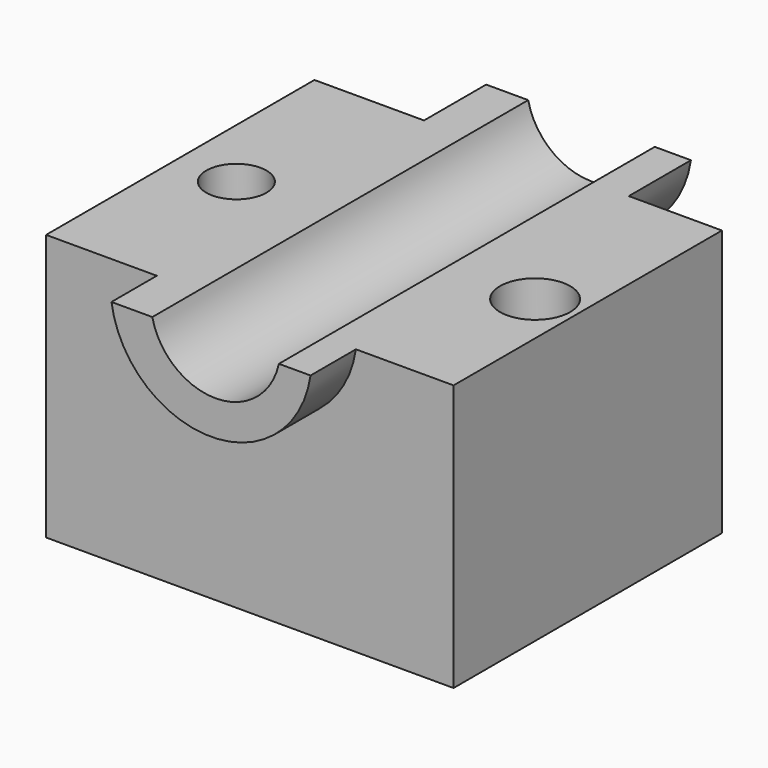
from build123d import *

# Parameters (mm, degrees)
F0_W     = 133.2367658615
F0_H     = 109.6848323941
F1_DEPTH = 87.122
F3_DEPTH = 18.542
F4_DEPTH = 140.208
F6_DEPTH = 25.4
F7_R     = 9.8377805887
F8_DEPTH = 150.876
F7_R_2   = 11.4915117279
F9_DEPTH = 154.432


with BuildPart() as f1:
    # F0 (on Top) → F1 (new body)
    with BuildSketch(Plane.XY):
        with Locations((-3.2847598195, 4.5694448054)):
            Rectangle(F0_W, F0_H)
    extrude(amount=F1_DEPTH)

    # F2 (on face) → F3 (join)
    with BuildSketch(Plane.XZ.offset(50.2729713917)):
        with BuildLine():
            Line((-20.3312505037, 87.122), (-33.694114536, 87.122))
            ThreePointArc((-33.694114536, 87.122), (-1.149084419, 58.9054568652), (31.395945698, 87.122))
            Line((31.395945698, 87.122), (21.0505016148, 87.122))
            ThreePointArc((21.0505016148, 87.122), (0.3596255556, 70.4522292625), (-20.3312505037, 87.122))
        make_face()
    extrude(amount=F3_DEPTH)

    # F4 (cut): a face of the model
    f4_faces = [f1.faces().sort_by_distance(p)[0] for p in [
        (0.3596255556, -50.2729713917, 80.1609892237),
    ]]
    extrude(f4_faces, amount=-F4_DEPTH, mode=Mode.SUBTRACT)

    # F5 (on face) → F6 (join)
    with BuildSketch(Plane(origin=(0, 59.4118610024, 0), x_dir=(-1, 0, 0), z_dir=(0, 1, 0))):
        with BuildLine():
            Line((-21.0505016148, 87.122), (-32.8814908862, 87.122))
            ThreePointArc((-32.8814908862, 87.122), (0.5957707763, 58.2968596354), (34.0730324388, 87.122))
            Line((34.0730324388, 87.122), (20.3312505037, 87.122))
            ThreePointArc((20.3312505037, 87.122), (-0.3596255556, 70.4522292625), (-21.0505016148, 87.122))
        make_face()
    extrude(amount=F6_DEPTH)

    # F7 (on face) → F8 (cut)
    with BuildSketch(Plane.XY.offset(87.122)):
        with Locations((-50.3509901464, 3.0695819296)):
            Circle(F7_R)
    extrude(amount=-F8_DEPTH, mode=Mode.SUBTRACT)

    # F7 (on face) → F9 (cut)
    with BuildSketch(Plane.XY.offset(87.122)):
        with Locations((49.7736558318, 0)):
            Circle(F7_R_2)
    extrude(amount=-F9_DEPTH, mode=Mode.SUBTRACT)


solid = f1.part
